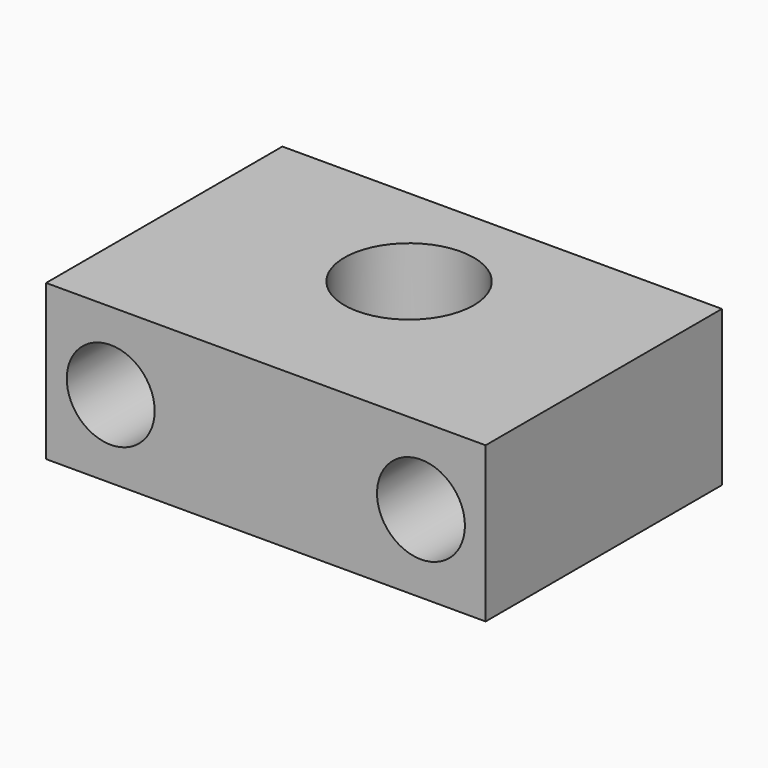
from build123d import *

# Parameters (mm, degrees)
F0_W     = 17
F0_H     = 11.425
F0_R     = 2.5
F1_DEPTH = 4
F3_DEPTH = 2
F4_R     = 1.7
F5_DEPTH = 11.426


with BuildPart() as f1:
    # F0 (on Top) → F1 (new body)
    with BuildSketch(Plane.XY):
        with Locations((-34.827103, 23.066922)):
            Rectangle(F0_W, F0_H)
        with Locations((-34.827103, 24.279422)):
            Circle(F0_R, mode=Mode.SUBTRACT)
    extrude(amount=F1_DEPTH)

    # F2 (on face) → F3 (join)
    with BuildSketch(Plane(origin=(0, 0, 0), x_dir=(1, 0, 0), z_dir=(0, 0, -1))):
        with BuildLine():
            ThreePointArc((-38.577103, -24.279422), (-34.827103, -20.529422), (-31.077103, -24.279422))
            Line((-31.077103, -24.279422), (-31.077103, -28.779422))
            Line((-31.077103, -28.779422), (-26.327103, -28.779422))
            Line((-26.327103, -28.779422), (-26.327103, -17.354422))
            Line((-26.327103, -17.354422), (-43.327103, -17.354422))
            Line((-43.327103, -17.354422), (-43.327103, -28.779422))
            Line((-43.327103, -28.779422), (-38.577103, -28.779422))
            Line((-38.577103, -28.779422), (-38.577103, -24.279422))
        make_face()
    extrude(amount=F3_DEPTH)

    # F4 (on face) → F5 (cut, through all)
    with BuildSketch(Plane.XZ.offset(-17.354422)):
        with Locations((-28.827103, 1)):
            Circle(F4_R)
        with Locations((-40.827103, 1)):
            Circle(F4_R)
    extrude(amount=-F5_DEPTH, mode=Mode.SUBTRACT)


solid = f1.part
